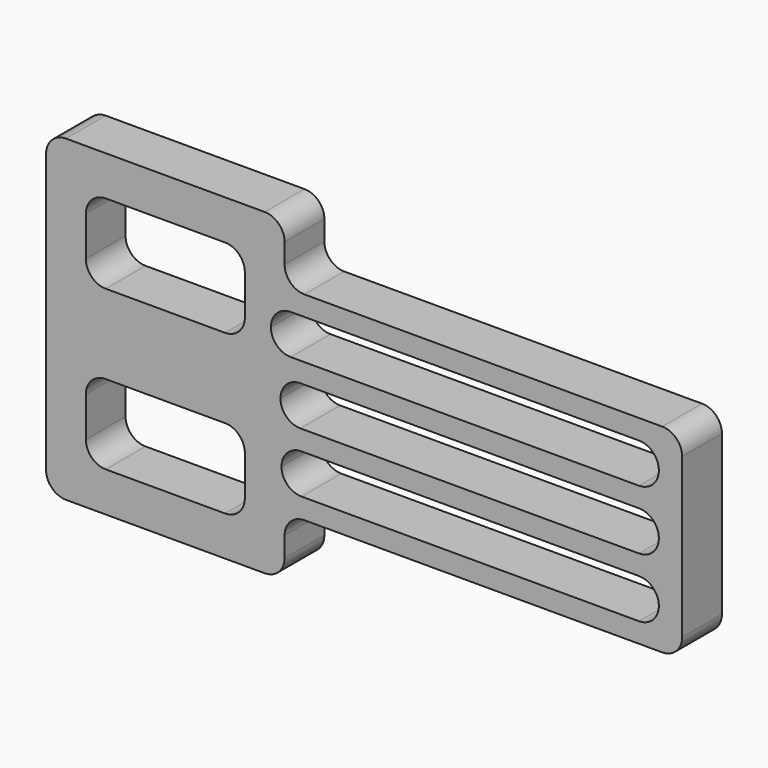
from build123d import *

# Parameters (mm, degrees)
F1_DEPTH = 25


with BuildPart() as f1:
    # F0 (on Front) → F1 (new body)
    with BuildSketch(Plane.XZ):
        with BuildLine():
            ThreePointArc((-89.145688, 80.140374), (-96.216756, 77.211442), (-99.145688, 70.140374))
            Line((-99.145688, 70.140374), (-99.145688, -69.859626))
            ThreePointArc((-99.145688, -69.859626), (-96.216756, -76.930694), (-89.145688, -79.859626))
            Line((-89.145688, -79.859626), (10.854312, -79.859626))
            ThreePointArc((10.854312, -79.859626), (17.92538, -76.930694), (20.854312, -69.859626))
            Line((20.854312, -69.859626), (20.854312, -59.859626))
            ThreePointArc((20.854312, -59.859626), (23.783244, -52.788558), (30.854312, -49.859626))
            Line((30.854312, -49.859626), (210.854312, -49.859626))
            ThreePointArc((210.854312, -49.859626), (217.92538, -46.930694), (220.854312, -39.859626))
            Line((220.854312, -39.859626), (220.854312, 40.140374))
            ThreePointArc((220.854312, 40.140374), (217.92538, 47.211442), (210.854312, 50.140374))
            Line((210.854312, 50.140374), (30.854312, 50.140374))
            ThreePointArc((30.854312, 50.140374), (23.783244, 53.069306), (20.854312, 60.140374))
            Line((20.854312, 60.140374), (20.854312, 70.140374))
            ThreePointArc((20.854312, 70.140374), (17.92538, 77.211442), (10.854312, 80.140374))
            Line((10.854312, 80.140374), (-89.145688, 80.140374))
        make_face()
        with BuildLine():
            ThreePointArc((-79.145688, -29.859626), (-76.216756, -22.788558), (-69.145688, -19.859626))
            Line((-69.145688, -19.859626), (-9.145688, -19.859626))
            ThreePointArc((-9.145688, -19.859626), (-2.07462, -22.788558), (0.854312, -29.859626))
            Line((0.854312, -29.859626), (0.854312, -49.859626))
            ThreePointArc((0.854312, -49.859626), (-2.07462, -56.930694), (-9.145688, -59.859626))
            Line((-9.145688, -59.859626), (-69.145688, -59.859626))
            ThreePointArc((-69.145688, -59.859626), (-76.216756, -56.930694), (-79.145688, -49.859626))
            Line((-79.145688, -49.859626), (-79.145688, -29.859626))
        make_face(mode=Mode.SUBTRACT)
        with BuildLine():
            ThreePointArc((19.293068, -29.859626), (22.222, -22.788558), (29.293068, -19.859626))
            Line((29.293068, -19.859626), (199.125637, -19.859626))
            ThreePointArc((199.125637, -19.859626), (206.196705, -22.788558), (209.125637, -29.859626))
            ThreePointArc((209.125637, -29.859626), (206.196705, -36.930694), (199.125637, -39.859626))
            Line((199.125637, -39.859626), (29.293068, -39.859626))
            ThreePointArc((29.293068, -39.859626), (22.222, -36.930694), (19.293068, -29.859626))
        make_face(mode=Mode.SUBTRACT)
        with BuildLine():
            ThreePointArc((-79.145688, 50.140374), (-76.216756, 57.211442), (-69.145688, 60.140374))
            Line((-69.145688, 60.140374), (-9.145688, 60.140374))
            ThreePointArc((-9.145688, 60.140374), (-2.07462, 57.211442), (0.854312, 50.140374))
            Line((0.854312, 50.140374), (0.854312, 30.140374))
            ThreePointArc((0.854312, 30.140374), (-2.07462, 23.069306), (-9.145688, 20.140374))
            Line((-9.145688, 20.140374), (-69.145688, 20.140374))
            ThreePointArc((-69.145688, 20.140374), (-76.216756, 23.069306), (-79.145688, 30.140374))
            Line((-79.145688, 30.140374), (-79.145688, 50.140374))
        make_face(mode=Mode.SUBTRACT)
        with BuildLine():
            ThreePointArc((18.76592, 0.140374), (21.694852, 7.211442), (28.76592, 10.140374))
            Line((28.76592, 10.140374), (199.125638, 10.140374))
            ThreePointArc((199.125638, 10.140374), (206.196706, 7.211442), (209.125638, 0.140373))
            ThreePointArc((209.125638, 0.140373), (206.196706, -6.930694), (199.125638, -9.859626))
            Line((199.125638, -9.859626), (28.76592, -9.859626))
            ThreePointArc((28.76592, -9.859626), (21.694852, -6.930694), (18.76592, 0.140374))
        make_face(mode=Mode.SUBTRACT)
        with BuildLine():
            Line((23.958503, 40.140374), (199.125637, 40.140374))
            ThreePointArc((199.125637, 40.140374), (205.417556, 37.912874), (208.906425, 32.222725))
            ThreePointArc((208.906425, 32.222725), (209.070683, 31.187303), (209.125637, 30.140374))
            ThreePointArc((209.125637, 30.140374), (209.061539, 29.00995), (208.870066, 27.894018))
            ThreePointArc((208.870066, 27.894018), (205.352051, 22.3153), (199.125637, 20.140374))
            Line((199.125637, 20.140374), (23.958503, 20.140374))
            ThreePointArc((23.958503, 20.140374), (16.887436, 23.069306), (13.958503, 30.140374))
            ThreePointArc((13.958503, 30.140374), (16.887436, 37.211442), (23.958503, 40.140374))
        make_face(mode=Mode.SUBTRACT)
    extrude(amount=F1_DEPTH)


solid = f1.part
